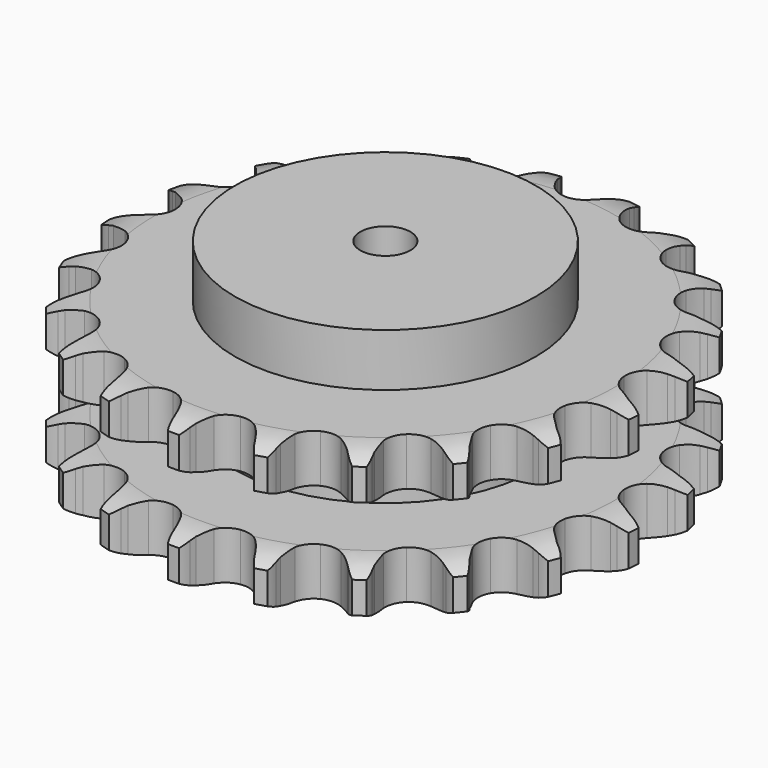
from build123d import *

# Parameters (mm, degrees)
PAD_DEPTH         = 88.4
SKETCH001_R       = 90
PAD001_DEPTH      = 120
SKETCH002_R       = 15
POCKET_DEPTH      = 0.001
POCKET_DEPTH_BACK = 120.001


with BuildPart() as part:
    # Sprocket → Pad (new body)
    with BuildSketch(Plane.XY):
        with BuildLine():
            ThreePointArc((-24.322776, 161.371074), (-20.24917, 157.195992), (-17.351934, 152.133226))
            Line((-17.351934, 152.133226), (-16.003216, 148.880957))
            ThreePointArc((-16.003216, 148.880957), (-13.84066, 144.516322), (-11.115152, 140.479209))
            ThreePointArc((-11.115152, 140.479209), (-6.187137, 136.4733), (0, 135.040824))
            ThreePointArc((0, 135.040824), (6.187137, 136.4733), (11.115152, 140.479209))
            ThreePointArc((11.115152, 140.479209), (13.84066, 144.516322), (16.003216, 148.880957))
            Line((16.003216, 148.880957), (17.351934, 152.133226))
            ThreePointArc((17.351934, 152.133226), (20.24917, 157.195992), (24.322776, 161.371074))
            ThreePointArc((24.322776, 161.371074), (26.984776, 156.180762), (28.26102, 150.488946))
            Line((28.26102, 150.488946), (28.591194, 146.983624))
            ThreePointArc((28.591194, 146.983624), (29.371175, 142.175474), (30.785637, 137.514361))
            ThreePointArc((30.785637, 137.514361), (34.313952, 132.233864), (39.803982, 129.041339))
            ThreePointArc((39.803982, 129.041339), (46.138471, 128.586483), (52.028311, 130.961864))
            Line((52.028311, 130.961864), (59.17567, 137.549563))
            ThreePointArc((59.17567, 137.549563), (60.26662, 138.931849), (61.423092, 140.259801))
            ThreePointArc((61.423092, 140.259801), (65.683888, 144.243667), (70.807142, 147.032545))
            ThreePointArc((70.807142, 147.032545), (71.821006, 141.288187), (71.362857, 135.473062))
            Line((71.362857, 135.473062), (70.645152, 132.026152))
            ThreePointArc((70.645152, 132.026152), (69.973253, 127.201711), (69.950987, 122.330758))
            ThreePointArc((69.950987, 122.330758), (71.766095, 116.24487), (76.071205, 111.575965))
            ThreePointArc((76.071205, 111.575965), (81.990199, 109.274194), (88.318526, 109.807982))
            Line((88.318526, 109.807982), (97.090107, 113.996287))
            ThreePointArc((97.090107, 113.996287), (98.540024, 114.995598), (100.036538, 115.923678))
            ThreePointArc((100.036538, 115.923678), (105.282304, 118.47466), (110.999983, 119.629531))
            ThreePointArc((110.999983, 119.629531), (110.275624, 113.841536), (108.123792, 108.419803))
            Line((108.123792, 108.419803), (106.421977, 105.337576))
            ThreePointArc((106.421977, 105.337576), (104.3579, 100.925517), (102.900885, 96.27753))
            ThreePointArc((102.900885, 96.27753), (102.841506, 89.927009), (105.579168, 84.196577))
            ThreePointArc((105.579168, 84.196577), (110.556739, 80.252412), (116.761252, 78.897179))
            Line((116.761252, 78.897179), (126.377661, 80.31394))
            ThreePointArc((126.377661, 80.31394), (128.057715, 80.841485), (129.761299, 81.287227))
            ThreePointArc((129.761299, 81.287227), (135.525926, 82.178659), (141.329988, 81.596907))
            ThreePointArc((141.329988, 81.596907), (138.931769, 76.279565), (135.277453, 71.732968))
            Line((135.277453, 71.732968), (132.742743, 69.289295))
            ThreePointArc((132.742743, 69.289295), (129.46989, 65.681649), (126.707587, 61.669621))
            ThreePointArc((126.707587, 61.669621), (124.778997, 55.618738), (125.705958, 49.335953))
            ThreePointArc((125.705958, 49.335953), (129.299827, 44.099852), (134.829229, 40.976015))
            Line((134.829229, 40.976015), (144.436006, 39.495347))
            ThreePointArc((144.436006, 39.495347), (146.196916, 39.50425), (147.9562, 39.428049))
            ThreePointArc((147.9562, 39.428049), (153.727474, 38.580724), (159.102204, 36.31404))
            ThreePointArc((159.102204, 36.31404), (155.243217, 31.93982), (150.411119, 28.672344))
            Line((150.411119, 28.672344), (147.268733, 27.084356))
            ThreePointArc((147.268733, 27.084356), (143.077912, 24.601677), (139.255765, 21.582096))
            ThreePointArc((139.255765, 21.582096), (135.629327, 16.368499), (134.663222, 10.091613))
            ThreePointArc((134.663222, 10.091613), (136.554058, 4.028826), (140.917037, -0.586047))
            Line((140.917037, -0.586047), (149.660577, -4.83258))
            ThreePointArc((149.660577, -4.83258), (151.345879, -5.34311), (153.004542, -5.934484))
            ThreePointArc((153.004542, -5.934484), (158.269662, -8.445278), (162.737491, -12.195489))
            ThreePointArc((162.737491, -12.195489), (157.760624, -15.237918), (152.180097, -16.935943))
            Line((152.180097, -16.935943), (148.709251, -17.527148))
            ThreePointArc((148.709251, -17.527148), (143.972833, -18.664261), (139.430456, -20.423093))
            ThreePointArc((139.430456, -20.423093), (134.428397, -24.336154), (131.655069, -30.04941))
            ThreePointArc((131.655069, -30.04941), (131.674862, -36.400178), (134.483748, -42.096037))
            Line((134.483748, -42.096037), (141.58715, -48.731112))
            ThreePointArc((141.58715, -48.731112), (143.047097, -49.715712), (144.45776, -50.769712))
            ThreePointArc((144.45776, -50.769712), (148.748896, -54.72088), (151.912837, -59.621395))
            ThreePointArc((151.912837, -59.621395), (146.260307, -61.0617), (140.427205, -61.039398))
            Line((140.427205, -61.039398), (136.936299, -60.581287))
            ThreePointArc((136.936299, -60.581287), (132.075137, -60.271798), (127.21614, -60.613601))
            ThreePointArc((127.21614, -60.613601), (121.282913, -62.878432), (116.948784, -67.520412))
            ThreePointArc((116.948784, -67.520412), (115.095776, -73.594867), (116.100988, -79.865608))
            Line((116.100988, -79.865608), (120.933083, -88.29967))
            ThreePointArc((120.933083, -88.29967), (122.037953, -89.670855), (123.075272, -91.093828))
            ThreePointArc((123.075272, -91.093828), (126.011137, -96.134291), (127.590061, -101.749678))
            ThreePointArc((127.590061, -101.749678), (121.76412, -101.459883), (116.19674, -99.719234))
            Line((116.19674, -99.719234), (112.995955, -98.252513))
            ThreePointArc((112.995955, -98.252513), (108.441985, -96.523921), (103.698111, -95.418324))
            ThreePointArc((103.698111, -95.418324), (97.36091, -95.833686), (91.851087, -98.991929))
            ThreePointArc((91.851087, -98.991929), (88.289926, -104.250329), (87.402146, -110.538771))
            Line((87.402146, -110.538771), (89.53358, -120.022415))
            ThreePointArc((89.53358, -120.022415), (90.1852, -121.658348), (90.757005, -123.323858))
            ThreePointArc((90.757005, -123.323858), (92.076736, -129.005749), (91.930349, -134.837057))
            ThreePointArc((91.930349, -134.837057), (86.448656, -132.842909), (81.641685, -129.538578))
            Line((81.641685, -129.538578), (79.015426, -127.193572))
            ThreePointArc((79.015426, -127.193572), (75.173287, -124.19947), (70.96605, -121.744711))
            ThreePointArc((70.96605, -121.744711), (64.787963, -120.273696), (58.592018, -121.667578))
            ThreePointArc((58.592018, -121.667578), (53.639128, -125.642692), (50.937239, -131.390078))
            Line((50.937239, -131.390078), (50.178627, -141.080642))
            ThreePointArc((50.178627, -141.080642), (50.319097, -142.835964), (50.374581, -144.596022))
            ThreePointArc((50.374581, -144.596022), (49.960913, -150.41448), (48.102221, -155.94357))
            ThreePointArc((48.102221, -155.94357), (43.45185, -152.42226), (39.832408, -147.847852))
            Line((39.832408, -147.847852), (38.014029, -144.832924))
            ThreePointArc((38.014029, -144.832924), (35.225112, -140.839351), (31.928344, -137.253545))
            ThreePointArc((31.928344, -137.253545), (26.458321, -134.026861), (20.12679, -133.53253))
            ThreePointArc((20.12679, -133.53253), (14.222259, -135.871151), (9.946335, -140.5668))
            Line((9.946335, -140.5668), (6.365082, -149.603235))
            ThreePointArc((6.365082, -149.603235), (5.981922, -151.321977), (5.516154, -153.020195))
            ThreePointArc((5.516154, -153.020195), (3.405843, -158.458224), (0, -163.193814))
            ThreePointArc((0, -163.193814), (-3.405843, -158.458224), (-5.516154, -153.020195))
            Line((-5.516154, -153.020195), (-6.365082, -149.603235))
            ThreePointArc((-6.365082, -149.603235), (-7.852968, -144.965038), (-9.946335, -140.5668))
            ThreePointArc((-9.946335, -140.5668), (-14.222259, -135.871151), (-20.12679, -133.53253))
            ThreePointArc((-20.12679, -133.53253), (-26.458321, -134.026861), (-31.928344, -137.253545))
            Line((-31.928344, -137.253545), (-38.014029, -144.832924))
            ThreePointArc((-38.014029, -144.832924), (-38.886774, -146.362368), (-39.832408, -147.847852))
            ThreePointArc((-39.832408, -147.847852), (-43.45185, -152.42226), (-48.102221, -155.94357))
            ThreePointArc((-48.102221, -155.94357), (-49.960913, -150.41448), (-50.374581, -144.596022))
            Line((-50.374581, -144.596022), (-50.178627, -141.080642))
            ThreePointArc((-50.178627, -141.080642), (-50.233278, -136.209945), (-50.937239, -131.390078))
            ThreePointArc((-50.937239, -131.390078), (-53.639128, -125.642692), (-58.592018, -121.667578))
            ThreePointArc((-58.592018, -121.667578), (-64.787963, -120.273696), (-70.96605, -121.744711))
            Line((-70.96605, -121.744711), (-79.015426, -127.193572))
            ThreePointArc((-79.015426, -127.193572), (-80.300209, -128.397821), (-81.641685, -129.538578))
            ThreePointArc((-81.641685, -129.538578), (-86.448656, -132.842909), (-91.930349, -134.837057))
            ThreePointArc((-91.930349, -134.837057), (-92.076736, -129.005749), (-90.757005, -123.323858))
            Line((-90.757005, -123.323858), (-89.53358, -120.022415))
            ThreePointArc((-89.53358, -120.022415), (-88.150141, -115.352001), (-87.402146, -110.538771))
            ThreePointArc((-87.402146, -110.538771), (-88.289926, -104.250329), (-91.851087, -98.991929))
            ThreePointArc((-91.851087, -98.991929), (-97.36091, -95.833686), (-103.698111, -95.418324))
            Line((-103.698111, -95.418324), (-112.995955, -98.252513))
            ThreePointArc((-112.995955, -98.252513), (-114.578618, -99.024564), (-116.19674, -99.719234))
            ThreePointArc((-116.19674, -99.719234), (-121.76412, -101.459883), (-127.590061, -101.749678))
            ThreePointArc((-127.590061, -101.749678), (-126.011137, -96.134291), (-123.075272, -91.093828))
            Line((-123.075272, -91.093828), (-120.933083, -88.29967))
            ThreePointArc((-120.933083, -88.29967), (-118.234476, -84.244525), (-116.100988, -79.865608))
            ThreePointArc((-116.100988, -79.865608), (-115.095776, -73.594867), (-116.948784, -67.520412))
            ThreePointArc((-116.948784, -67.520412), (-121.282913, -62.878432), (-127.21614, -60.613601))
            Line((-127.21614, -60.613601), (-136.936299, -60.581287))
            ThreePointArc((-136.936299, -60.581287), (-138.676214, -60.85254), (-140.427205, -61.039398))
            ThreePointArc((-140.427205, -61.039398), (-146.260307, -61.0617), (-151.912837, -59.621395))
            ThreePointArc((-151.912837, -59.621395), (-148.748896, -54.72088), (-144.45776, -50.769712))
            Line((-144.45776, -50.769712), (-141.58715, -48.731112))
            ThreePointArc((-141.58715, -48.731112), (-137.81316, -45.651553), (-134.483748, -42.096037))
            ThreePointArc((-134.483748, -42.096037), (-131.674862, -36.400178), (-131.655069, -30.04941))
            ThreePointArc((-131.655069, -30.04941), (-134.428397, -24.336154), (-139.430456, -20.423093))
            Line((-139.430456, -20.423093), (-148.709251, -17.527148))
            ThreePointArc((-148.709251, -17.527148), (-150.45182, -17.273501), (-152.180097, -16.935943))
            ThreePointArc((-152.180097, -16.935943), (-157.760624, -15.237918), (-162.737491, -12.195489))
            ThreePointArc((-162.737491, -12.195489), (-158.269662, -8.445278), (-153.004542, -5.934484))
            Line((-153.004542, -5.934484), (-149.660577, -4.83258))
            ThreePointArc((-149.660577, -4.83258), (-145.146539, -3.002241), (-140.917037, -0.586047))
            ThreePointArc((-140.917037, -0.586047), (-136.554058, 4.028826), (-134.663222, 10.091613))
            ThreePointArc((-134.663222, 10.091613), (-135.629327, 16.368499), (-139.255765, 21.582096))
            Line((-139.255765, 21.582096), (-147.268733, 27.084356))
            ThreePointArc((-147.268733, 27.084356), (-148.859122, 27.840365), (-150.411119, 28.672344))
            ThreePointArc((-150.411119, 28.672344), (-155.243217, 31.93982), (-159.102204, 36.31404))
            ThreePointArc((-159.102204, 36.31404), (-153.727474, 38.580724), (-147.9562, 39.428049))
            Line((-147.9562, 39.428049), (-144.436006, 39.495347))
            ThreePointArc((-144.436006, 39.495347), (-139.583012, 39.913834), (-134.829229, 40.976015))
            ThreePointArc((-134.829229, 40.976015), (-129.299827, 44.099852), (-125.705958, 49.335953))
            ThreePointArc((-125.705958, 49.335953), (-124.778997, 55.618738), (-126.707587, 61.669621))
            Line((-126.707587, 61.669621), (-132.742743, 69.289295))
            ThreePointArc((-132.742743, 69.289295), (-134.039637, 70.480492), (-135.277453, 71.732968))
            ThreePointArc((-135.277453, 71.732968), (-138.931769, 76.279565), (-141.329988, 81.596907))
            ThreePointArc((-141.329988, 81.596907), (-135.525926, 82.178659), (-129.761299, 81.287227))
            Line((-129.761299, 81.287227), (-126.377661, 80.31394))
            ThreePointArc((-126.377661, 80.31394), (-121.616921, 79.283389), (-116.761252, 78.897179))
            ThreePointArc((-116.761252, 78.897179), (-110.556739, 80.252412), (-105.579168, 84.196577))
            ThreePointArc((-105.579168, 84.196577), (-102.841506, 89.927009), (-102.900885, 96.27753))
            Line((-102.900885, 96.27753), (-106.421977, 105.337576))
            ThreePointArc((-106.421977, 105.337576), (-107.310142, 106.858118), (-108.123792, 108.419803))
            ThreePointArc((-108.123792, 108.419803), (-110.275624, 113.841536), (-110.999983, 119.629531))
            ThreePointArc((-110.999983, 119.629531), (-105.282304, 118.47466), (-100.036538, 115.923678))
            Line((-100.036538, 115.923678), (-97.090107, 113.996287))
            ThreePointArc((-97.090107, 113.996287), (-92.844633, 111.608267), (-88.318526, 109.807982))
            ThreePointArc((-88.318526, 109.807982), (-81.990199, 109.274194), (-76.071205, 111.575965))
            ThreePointArc((-76.071205, 111.575965), (-71.766095, 116.24487), (-69.950987, 122.330758))
            Line((-69.950987, 122.330758), (-70.645152, 132.026152))
            ThreePointArc((-70.645152, 132.026152), (-71.04567, 133.740932), (-71.362857, 135.473062))
            ThreePointArc((-71.362857, 135.473062), (-71.821006, 141.288187), (-70.807142, 147.032545))
            ThreePointArc((-70.807142, 147.032545), (-65.683888, 144.243667), (-61.423092, 140.259801))
            Line((-61.423092, 140.259801), (-59.17567, 137.549563))
            ThreePointArc((-59.17567, 137.549563), (-55.822693, 134.016261), (-52.028311, 130.961864))
            ThreePointArc((-52.028311, 130.961864), (-46.138471, 128.586483), (-39.803982, 129.041339))
            ThreePointArc((-39.803982, 129.041339), (-34.313952, 132.233864), (-30.785637, 137.514361))
            Line((-30.785637, 137.514361), (-28.591194, 146.983624))
            ThreePointArc((-28.591194, 146.983624), (-28.468479, 148.740276), (-28.26102, 150.488946))
            ThreePointArc((-28.26102, 150.488946), (-26.984776, 156.180762), (-24.322776, 161.371074))
        make_face()
    extrude(amount=PAD_DEPTH)

    # Sketch → Groove (revolve, cut)
    with BuildSketch(Plane.XZ):
        with BuildLine():
            ThreePointArc((138.128451, 0), (148.61654, 1.268279), (158.5, 5))
            Line((158.5, 5), (158.5, 23.8))
            ThreePointArc((158.5, 23.8), (148.61654, 27.531721), (138.128451, 28.8))
            Line((90, 28.8), (138.128451, 28.8))
            Line((90, 59.6), (90, 28.8))
            Line((138.128451, 59.6), (90, 59.6))
            ThreePointArc((138.128451, 59.6), (148.61654, 60.868279), (158.5, 64.6))
            Line((158.5, 64.6), (158.5, 83.4))
            ThreePointArc((158.5, 83.4), (148.61654, 87.131721), (138.128451, 88.4))
            Line((138.128451, 88.4), (168.5, 88.4))
            Line((168.5, 88.4), (168.5, 0))
            Line((138.128451, 0), (168.5, 0))
        make_face()
    revolve(axis=Axis((0, 0, 0), (0, 0, 1)), mode=Mode.SUBTRACT)

    # Sketch001 → Pad001 (join)
    with BuildSketch(Plane.XY):
        Circle(SKETCH001_R)
    extrude(amount=PAD001_DEPTH)

    # Sketch002 → Pocket (cut, two sides)
    with BuildSketch(Plane.XY) as pocket_sk:
        Circle(SKETCH002_R)
    extrude(amount=-POCKET_DEPTH, mode=Mode.SUBTRACT)
    extrude(pocket_sk.sketch, amount=POCKET_DEPTH_BACK, mode=Mode.SUBTRACT)


solid = part.part
